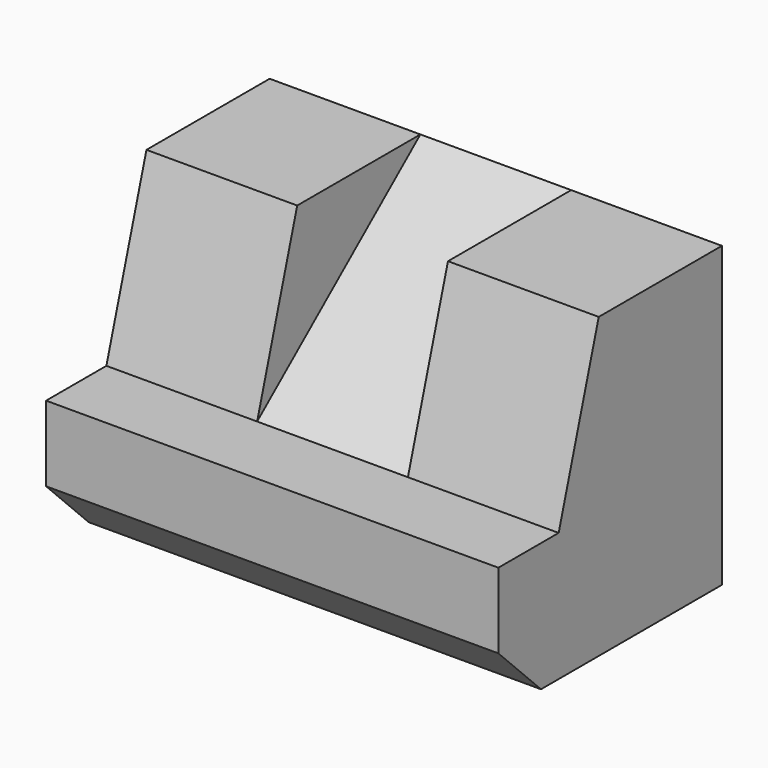
from build123d import *

# Parameters (mm, degrees)
F1_DEPTH = 15
F3_DEPTH = 5


with BuildPart() as f1:
    # F0 (on Right) → F1 (new body)
    with BuildSketch(Plane.YZ):
        Polygon((-3.5355339059, 3.5355339059), (0, 0), (15, 0), (15, 19.7983665757), (4.7861494543, 19.7983665757), (1.4644660941, 8.5355339059), (-3.5355339059, 8.5355339059), align=None)
    extrude(amount=-F1_DEPTH)

    # F2 (on face) → F3 (cut)
    with BuildSketch(Plane(origin=(-15, 0, 0), x_dir=(0, -1, 0), z_dir=(-1, 0, 0))):
        Polygon((-4.7861494543, 19.7983665757), (-15, 19.7983665757), (-1.4644660941, 8.5355339059), align=None)
    extrude(amount=-F3_DEPTH, mode=Mode.SUBTRACT)

    # F6: F1 across plane


with BuildPart() as f1_1:
    add(f1.part)
    add(f1.part.mirror(Plane.YZ.offset(-15)))


solid = f1_1.part
